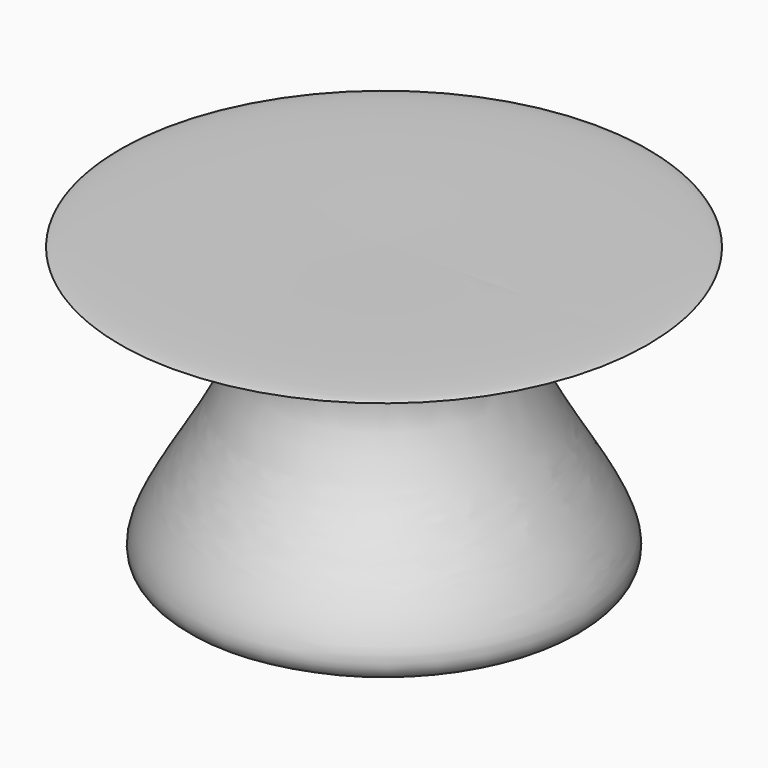
from build123d import *


with BuildPart() as f1:
    # F0 (on Front) → F1 (revolve)
    with BuildSketch(Plane.XZ):
        with BuildLine():
            add(Edge.make_bspline(
                [(0, 0), (13.593765102, -2.7561046671), (41.3740212585, -8.3884878273), (1.8780227917, 32.7753165562), (53.064797932, 36.7808922762), (19.2319912931, 36.5016298578), (0, 36.3428853452)],
                knots=[0, 0, 0, 0, 0.2467066972, 0.5041704923, 0.7181496387, 1, 1, 1, 1], degree=3))
            Line((0, 36.3428853452), (0, 6.5230834298))
            Line((0, 6.5230834298), (0, 0))
        make_face()
    revolve(axis=Axis((0, 0, 29.8198012169), (0, 0, -1)))


solid = f1.part
